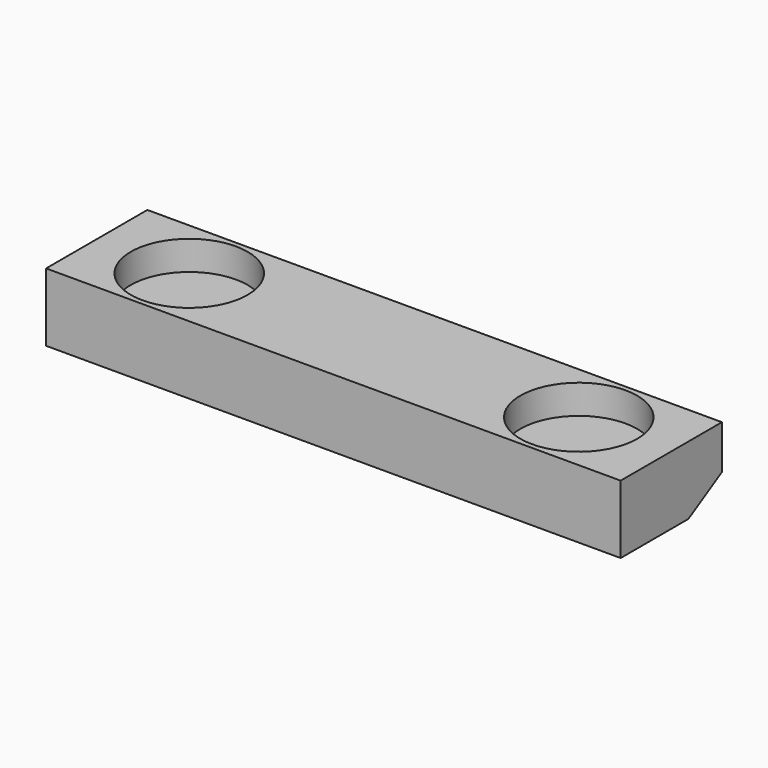
from build123d import *

# Parameters (mm, degrees)
F0_W     = 59
F0_H     = 13
F1_DEPTH = 7
F2_R     = 6
F3_DEPTH = 3
F5_DEPTH = 70


with BuildPart() as f1:
    # F0 (on Top) → F1 (new body)
    with BuildSketch(Plane.XY):
        Rectangle(F0_W, F0_H)
    extrude(amount=F1_DEPTH)

    # F2 (on face) → F3 (cut)
    with BuildSketch(Plane.XY.offset(7)):
        with Locations((-20, 0)):
            Circle(F2_R)
        with Locations((20, 0)):
            Circle(F2_R)
    extrude(amount=-F3_DEPTH, mode=Mode.SUBTRACT)

    # F4 (on face) → F5 (cut)
    with BuildSketch(Plane.YZ.offset(29.5)):
        Polygon((2.194, 0), (6.5, 0), (6.5, 2.48607), align=None)
    extrude(amount=-F5_DEPTH, mode=Mode.SUBTRACT)


solid = f1.part
